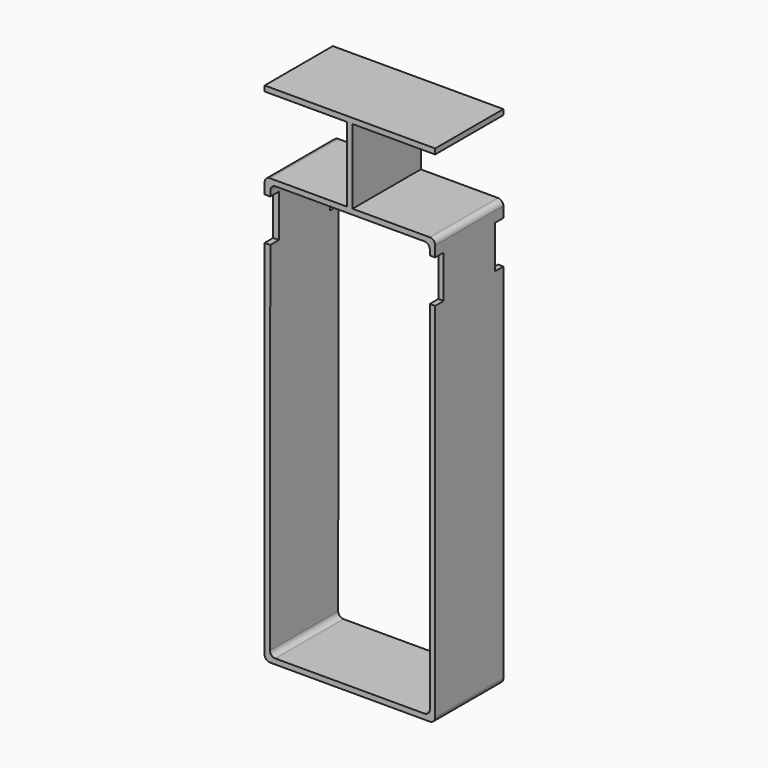
from build123d import *

# Parameters (mm, degrees)
F1_DEPTH = 50.8
F2_R     = 3.175
F3_W     = 19.05
F3_H     = 25.4
F3_W_2   = 6.35
F4_DEPTH = 127


with BuildPart() as f1:
    # F0 (on Front) → F1 (new body)
    with BuildSketch(Plane.XZ):
        Polygon((-7.708922, 210.136639), (-56.921422, 210.136639), (-56.921422, -43.863361), (44.678578, -43.863361), (44.678578, 210.136639), (-4.533922, 210.136639), (-4.533922, 254.586639), (44.678578, 254.586639), (44.678578, 257.761639), (-56.921422, 257.761639), (-56.921422, 254.586639), (-7.708922, 254.586639), align=None)
        Polygon((-53.746422, -40.688361), (-53.502657, 206.961519), (41.503578, 206.961519), (41.503578, -40.688361), align=None, mode=Mode.SUBTRACT)
    extrude(amount=F1_DEPTH)

    # F2
    f2_edges = [f1.edges().sort_by_distance(p)[0] for p in [
        (-56.921422, -25.4, 210.136639),
        (-53.502657, -25.4, 206.961519),
        (44.678578, -25.4, 210.136639),
        (41.503578, -25.4, 206.961519),
        (44.678578, -25.4, -43.863361),
        (41.503578, -25.4, -40.688361),
        (-56.921422, -25.4, -43.863361),
        (-53.746422, -25.4, -40.688361),
    ]]
    fillet(f2_edges, radius=F2_R)

    # F3 (on face) → F4 (cut)
    with BuildSketch(Plane.YZ.offset(44.678578)):
        with Locations((-60.325, 187.911639)):
            Rectangle(F3_W, F3_H)
        with Locations((-47.625, 187.911639)):
            Rectangle(F3_W_2, F3_H)
        with Locations((-3.175, 187.911639)):
            Rectangle(F3_W_2, F3_H)
    extrude(amount=-F4_DEPTH, mode=Mode.SUBTRACT)


solid = f1.part
